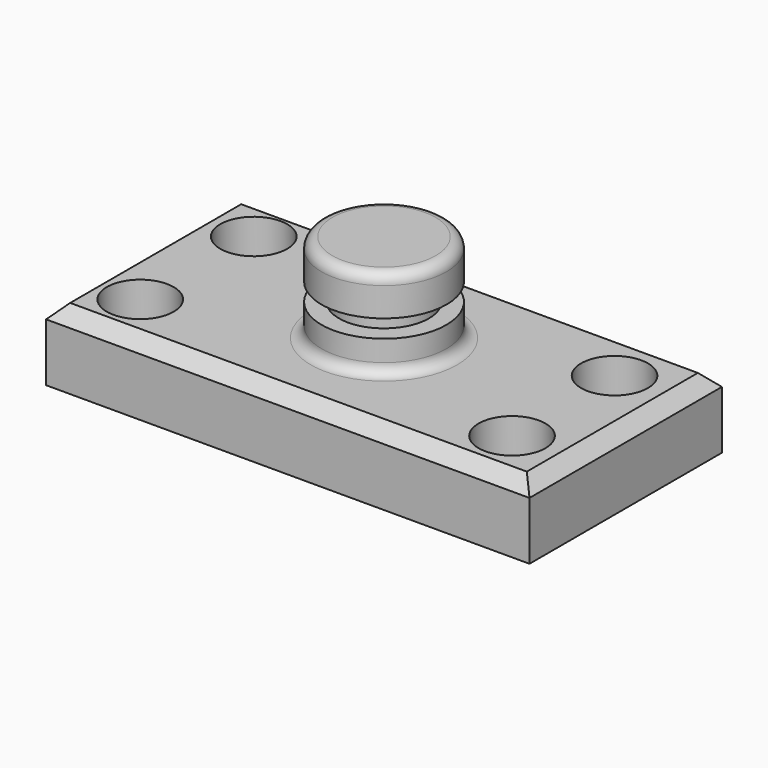
from build123d import *

# Parameters (mm, degrees)
F0_W     = 137.63725
F0_H     = 68.484548
F1_DEPTH = 20.32
F2_R     = 9.525
F3_DEPTH = 25.4
F4_W     = 17.78
F4_H     = 25.4
F6_W     = 5.08
F6_H     = 5.08
F8_SIZE  = 3.81
F9_R     = 3.048


with BuildPart() as f1:
    # F0 (on Top) → F1 (new body)
    with BuildSketch(Plane.XY):
        Rectangle(F0_W, F0_H)
    extrude(amount=F1_DEPTH)

    # F2 (on face) → F3 (cut)
    with BuildSketch(Plane.XY.offset(20.32)):
        with Locations((51.390208, 17.808059)):
            Circle(F2_R)
        with Locations((-53.108271, 20.035554)):
            Circle(F2_R)
        with Locations((-53.903826, -19.373486)):
            Circle(F2_R)
        with Locations((51.681355, -19.040003)):
            Circle(F2_R)
    extrude(amount=-F3_DEPTH, mode=Mode.SUBTRACT)

    # F4 (on Front) → F5 (revolve)
    with BuildSketch(Plane.XZ):
        with Locations((8.89, 33.02)):
            Rectangle(F4_W, F4_H)
    revolve(axis=Axis((0, 0, 33.02), (0, 0, 1)))

    # F6 (on Front) → F7 (revolve, cut)
    with BuildSketch(Plane.XZ):
        with Locations((15.342483, 31.907923)):
            Rectangle(F6_W, F6_H)
    revolve(axis=Axis((0, 0, 43.360371), (0, 0, -1)), mode=Mode.SUBTRACT)

    # F8
    f8_edges = [f1.edges().sort_by_distance(p)[0] for p in [
        (0, -34.242274, 20.32),
        (0, 34.242274, 20.32),
        (68.818625, 0, 20.32),
        (-68.818625, 0, 20.32),
    ]]
    chamfer(f8_edges, length=F8_SIZE)

    # F9
    f9_edges = [f1.edges().sort_by_distance(p)[0] for p in [
        (-17.78, 0, 45.72),
        (-17.78, 0, 20.32),
    ]]
    fillet(f9_edges, radius=F9_R)


solid = f1.part
